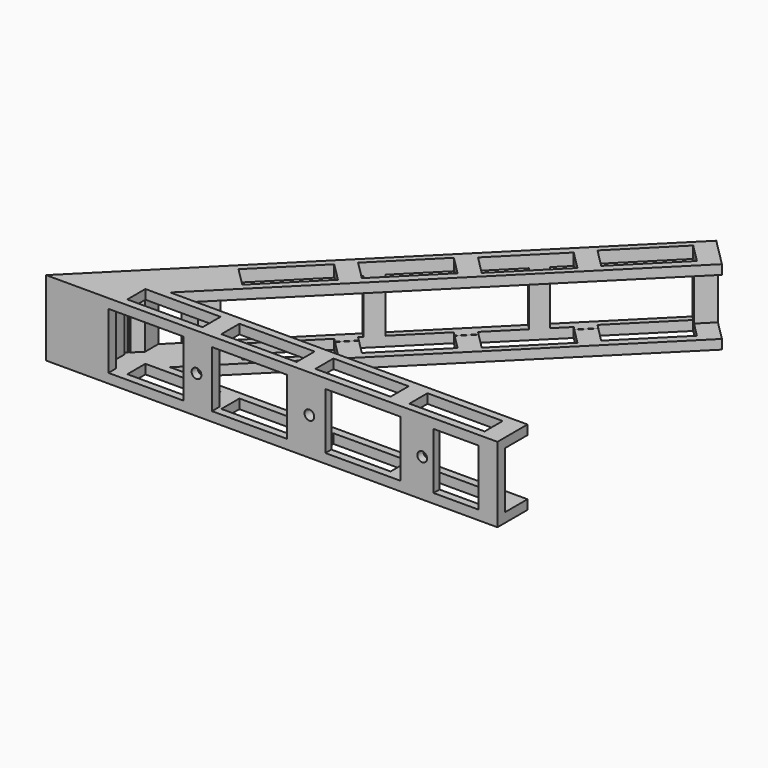
from build123d import *

# Parameters (mm, degrees)
F1_DEPTH  = 25.4
F2_W      = 9.525
F2_H      = 19.05
F3_DEPTH  = 134.62
F4_W      = 9.525
F4_H      = 19.05
F5_DEPTH  = 157.48
F6_R      = 1.651
F7_DEPTH  = 25.4
F8_W      = 25.4
F8_H      = 7.62
F9_DEPTH  = 101.6
F10_W     = 15.24
F10_H     = 19.05
F10_W_2   = 25.4
F11_DEPTH = 25.4
F12_W     = 38.1
F12_H     = 18.161
F13_DEPTH = 25.4


with BuildPart() as f1:
    # F0 (on Top) → F1 (new body)
    with BuildSketch(Plane.XY):
        Polygon((125.723586, 125.723586), (0, 0), (152.4, 0), (152.4, 12.7), (31.75, 12.7), (135.248586, 116.198586), align=None)
    extrude(amount=F1_DEPTH)

    # F2 (on face) → F3 (cut)
    with BuildSketch(Plane.YZ.offset(152.4)):
        with Locations((7.9375, 12.7)):
            Rectangle(F2_W, F2_H)
    extrude(amount=-F3_DEPTH, mode=Mode.SUBTRACT)

    # F4 (on face) → F5 (cut)
    with BuildSketch(Plane(origin=(125.723586, 125.723586, 0), x_dir=(-0.707107, 0.707107, 0), z_dir=(0.707107, 0.707107, 0))):
        with Locations((-8.707884, 12.7)):
            Rectangle(F4_W, F4_H)
    extrude(amount=-F5_DEPTH, mode=Mode.SUBTRACT)

    # F6 (on face) → F7 (cut)
    with BuildSketch(Plane(origin=(0, 3.175, 0), x_dir=(-1, 0, 0), z_dir=(0, 1, 0))):
        with Locations((-88.9, 12.7)):
            Circle(F6_R)
        with Locations((-50.8, 12.7)):
            Circle(F6_R)
        with Locations((-127, 12.7)):
            Circle(F6_R)
    extrude(amount=-F7_DEPTH, mode=Mode.SUBTRACT)

    # F8 (on face) → F9 (cut)
    with BuildSketch(Plane.XY.offset(25.4)):
        with Locations((38.1, 6.35)):
            Rectangle(F8_W, F8_H)
        with Locations((69.85, 6.35)):
            Rectangle(F8_W, F8_H)
        with Locations((101.6, 6.35)):
            Rectangle(F8_W, F8_H)
        with Locations((133.35, 6.35)):
            Rectangle(F8_W, F8_H)
        Polygon((128.962406, 113.504509), (122.676227, 119.790688), (104.715715, 101.830176), (111.001894, 95.543997), align=None)
        Polygon((106.865048, 90.700587), (100.578869, 96.986766), (82.618356, 79.026254), (88.904536, 72.740075), align=None)
        Polygon((84.061126, 68.603228), (77.774947, 74.889408), (59.814434, 56.928895), (66.100614, 50.642716), align=None)
        Polygon((61.755537, 46.007537), (55.469357, 52.293716), (37.508845, 34.333204), (43.795024, 28.047025), align=None)
    extrude(amount=-F9_DEPTH, mode=Mode.SUBTRACT)

    # F10 (on face) → F11 (cut)
    with BuildSketch(Plane.XZ):
        with Locations((138.455176, 12.7)):
            Rectangle(F10_W, F10_H)
        with Locations((106.998765, 12.7)):
            Rectangle(F10_W_2, F10_H)
        with Locations((68.713241, 12.7)):
            Rectangle(F10_W_2, F10_H)
        with Locations((33.749367, 12.7)):
            Rectangle(F10_W_2, F10_H)
    extrude(amount=-F11_DEPTH, mode=Mode.SUBTRACT)

    # F12 (on face) → F13 (cut)
    with BuildSketch(Plane(origin=(0, 0, 0), x_dir=(-0.707107, -0.707107, 0), z_dir=(-0.707107, 0.707107, 0))):
        with Locations((-108.820044, 12.337992)):
            Rectangle(F12_W, F12_H)
        with Locations((-152.4, 12.337992)):
            Rectangle(F12_W, F12_H)
        with Locations((-64.913327, 12.337992)):
            Rectangle(F12_W, F12_H)
    extrude(amount=-F13_DEPTH, mode=Mode.SUBTRACT)


solid = f1.part
